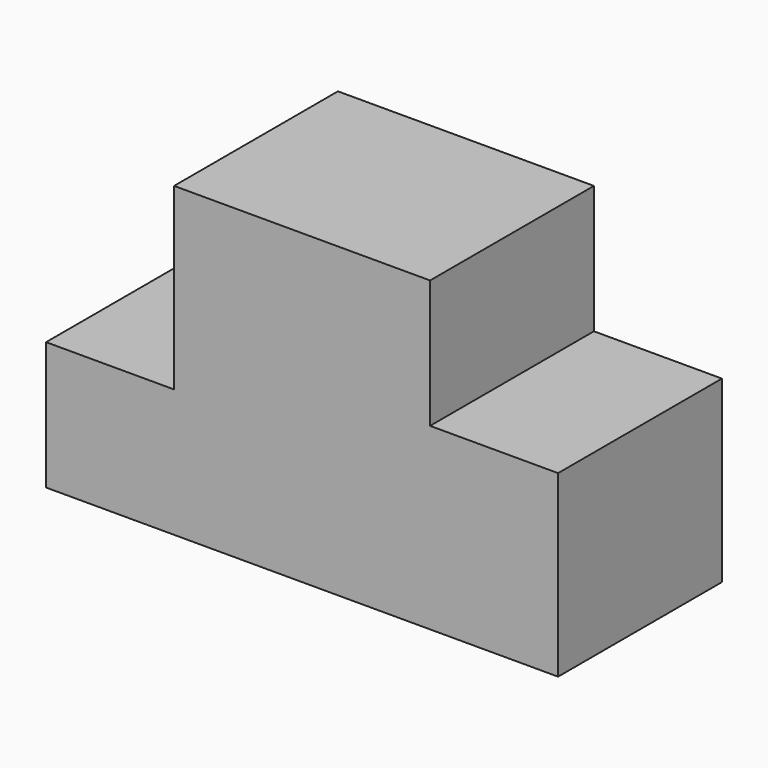
from build123d import *

# Parameters (mm, degrees)
F0_W     = 100
F0_H     = 60
F1_DEPTH = 40
F2_W     = 25
F2_H     = 35
F2_H_2   = 25
F3_DEPTH = 40.001


with BuildPart() as f1:
    # F0 (on Front) → F1 (new body)
    with BuildSketch(Plane.XZ):
        Rectangle(F0_W, F0_H)
    extrude(amount=F1_DEPTH)

    # F2 (on face) → F3 (cut, through all)
    with BuildSketch(Plane.XZ.offset(40)):
        with Locations((-37.5, 12.5)):
            Rectangle(F2_W, F2_H)
        with Locations((37.5, 17.5)):
            Rectangle(F2_W, F2_H_2)
    extrude(amount=-F3_DEPTH, mode=Mode.SUBTRACT)


solid = f1.part
